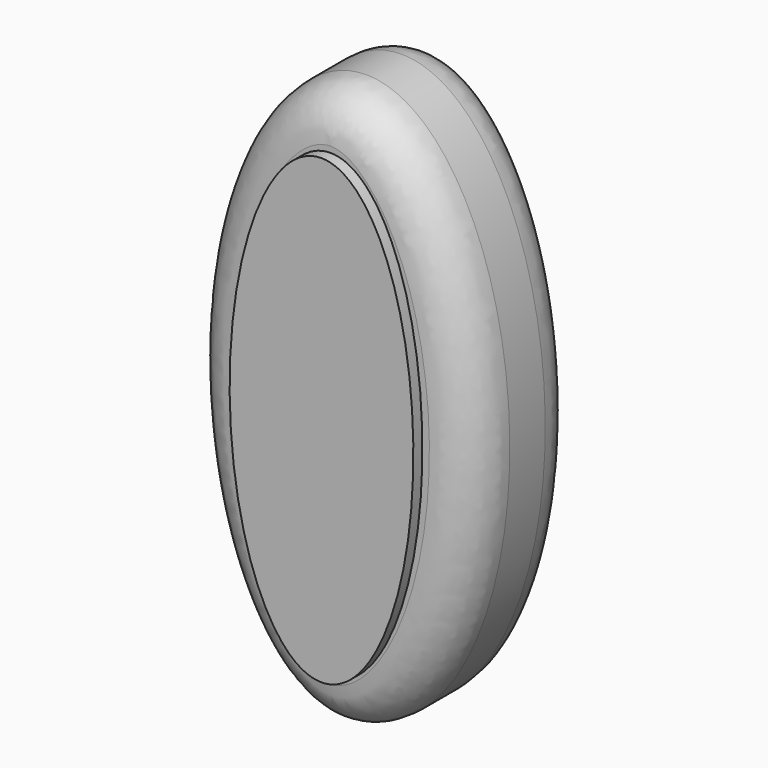
from build123d import *

# Parameters (mm, degrees)
F1_DEPTH = 3.302
F2_R     = 1.103778
F4_DEPTH = 3.5814


with BuildPart() as f1:
    # F0 (on Front) → F1 (new body)
    with BuildSketch(Plane.XZ):
        with BuildLine():
            add(Edge.make_bspline(
                [(0, 10.247355), (-6.142055, 10.247355), (-3.071027, -0.176063), (0, -10.599481), (3.071027, -0.176063), (6.142055, 10.247355), (0, 10.247355)],
                knots=[0, 0, 0, 2.094395, 2.094395, 4.18879, 4.18879, 6.283185, 6.283185, 6.283185], degree=2, weights=[1, 0.5, 1, 0.5, 1, 0.5, 1]))
        make_face()
    extrude(amount=F1_DEPTH)

    # F2
    f2_edges = [f1.edges().sort_by_distance(p)[0] for p in [
        (-1e-06, -3.302, -3.650535),
        (-1e-06, 0, -3.650535),
    ]]
    fillet(f2_edges, radius=F2_R)

    # F3 (on Front) → F4 (join)
    with BuildSketch(Plane.XZ):
        with BuildLine():
            add(Edge.make_bspline(
                [(0, 8.996296), (-3.931331, 8.996296), (-1.965665, 0.443991), (0, -8.108315), (1.965665, 0.443991), (3.931331, 8.996296), (0, 8.996296)],
                knots=[0, 0, 0, 2.094395, 2.094395, 4.18879, 4.18879, 6.283185, 6.283185, 6.283185], degree=2, weights=[1, 0.5, 1, 0.5, 1, 0.5, 1]))
        make_face()
    extrude(amount=F4_DEPTH)


solid = f1.part
